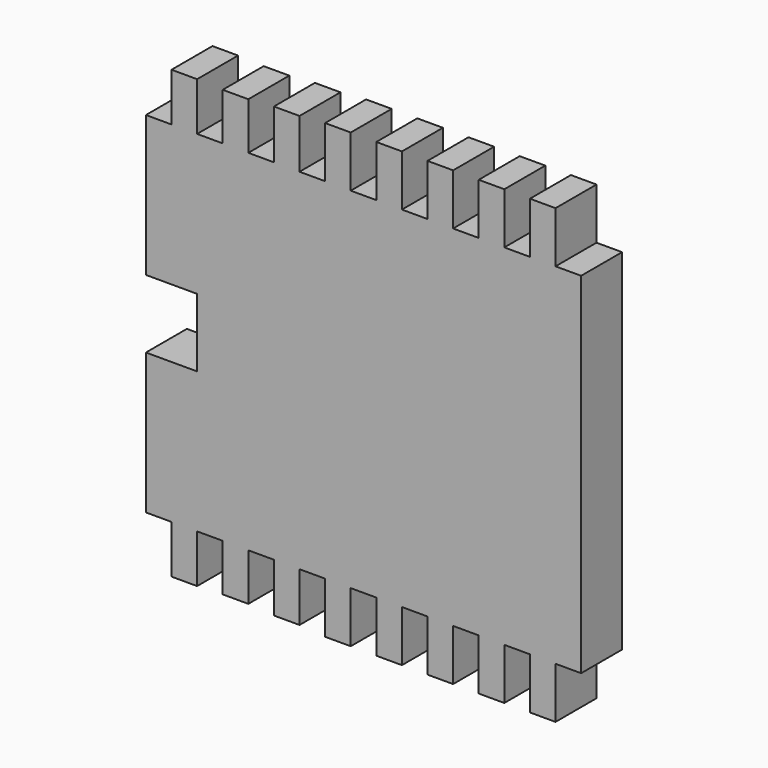
from build123d import *

# Parameters (mm, degrees)
F1_DEPTH = 19.05


with BuildPart() as f1:
    # F0 (on Front) → F1 (new body)
    with BuildSketch(Plane.XZ):
        Polygon((80.9625, -65.0875), (80.9625, 65.0875), (71.4375, 65.0875), (71.4375, 84.1375), (61.9125, 84.1375), (61.9125, 65.0875), (52.3875, 65.0875), (52.3875, 84.1375), (42.8625, 84.1375), (42.8625, 65.0875), (33.3375, 65.0875), (33.3375, 84.1375), (23.8125, 84.1375), (23.8125, 65.0875), (14.2875, 65.0875), (14.2875, 84.1375), (4.7625, 84.1375), (4.7625, 65.0875), (-4.7625, 65.0875), (-4.7625, 84.1375), (-14.2875, 84.1375), (-14.2875, 65.0875), (-23.8125, 65.0875), (-23.8125, 83.364271), (-33.3375, 83.364271), (-33.3375, 65.0875), (-42.8625, 65.0875), (-42.8625, 82.642086), (-52.3875, 82.642086), (-52.3875, 65.0875), (-61.9125, 65.0875), (-61.9125, 83.017498), (-71.4375, 83.017498), (-71.4375, 65.0875), (-80.9625, 65.0875), (-80.9625, 12.7), (-61.9125, 12.7), (-61.9125, -12.7), (-80.9625, -12.7), (-80.9625, -65.0875), (-71.4375, -65.0875), (-71.4375, -83.017498), (-61.9125, -83.017498), (-61.9125, -65.0875), (-52.3875, -65.0875), (-52.3875, -82.642086), (-42.8625, -82.642086), (-42.8625, -65.0875), (-33.3375, -65.0875), (-33.3375, -83.364271), (-23.8125, -83.364271), (-23.8125, -65.0875), (-14.2875, -65.0875), (-14.2875, -84.1375), (-4.7625, -84.1375), (-4.7625, -65.0875), (4.7625, -65.0875), (4.7625, -84.1375), (14.2875, -84.1375), (14.2875, -65.0875), (23.8125, -65.0875), (23.8125, -84.1375), (33.3375, -84.1375), (33.3375, -65.0875), (42.8625, -65.0875), (42.8625, -84.1375), (52.3875, -84.1375), (52.3875, -65.0875), (61.9125, -65.0875), (61.9125, -84.1375), (71.4375, -84.1375), (71.4375, -65.0875), align=None)
    extrude(amount=F1_DEPTH)


solid = f1.part
